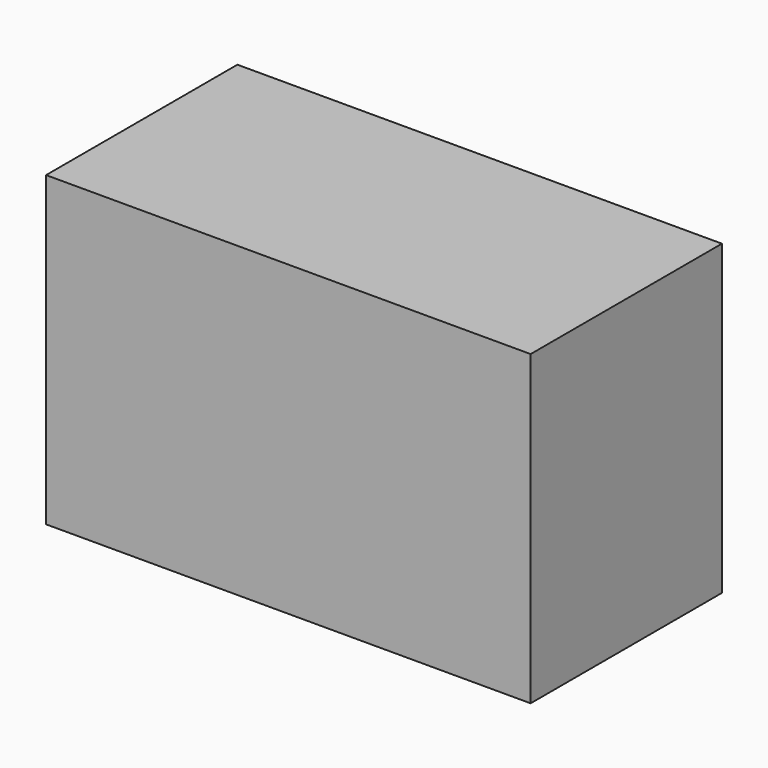
from build123d import *

# Parameters (mm, degrees)
F0_W      = 132.275518
F0_H      = 83.935342
F1_DEPTH  = 25.4
F1_FACE_W = 132.275518
F1_FACE_H = 83.935342
F2_DEPTH  = 39.878
F3_T      = -2.54


with BuildPart() as f1:
    # F0 (on Front) → F1 (new body)
    with BuildSketch(Plane.XZ):
        with Locations((5.538398, -30.956518)):
            Rectangle(F0_W, F0_H)
    extrude(amount=F1_DEPTH)

    # F1_face (on face) → F2 (join)
    with BuildSketch(Plane(origin=(5.538398, 0, -30.956518), x_dir=(1, 0, 0), z_dir=(0, 1, 0))):
        Rectangle(F1_FACE_W, F1_FACE_H)
    extrude(amount=F2_DEPTH)

    # F3
    f3_openings = [f1.faces().sort_by_distance(p)[0] for p in [
        (5.538398, 39.878, -30.956518),
    ]]
    offset(amount=F3_T, openings=f3_openings)


solid = f1.part
